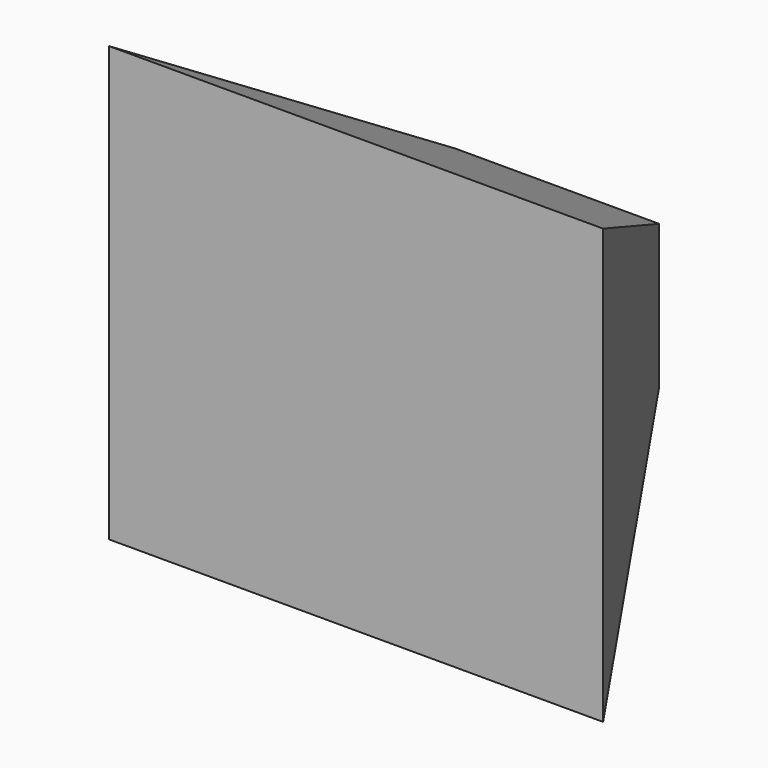
from build123d import *

# Parameters (mm, degrees)
F0_W     = 103.0609719455
F0_H     = 72.7996248752
F1_DEPTH = 127
F1_TAPER = -30


with BuildPart() as f1:
    # F0 (on Front) → F1 (new body)
    with BuildSketch(Plane.XZ):
        with Locations((-7.1428399533, 14.7747313604)):
            Rectangle(F0_W, F0_H)
    extrude(amount=F1_DEPTH, taper=F1_TAPER)


solid = f1.part
